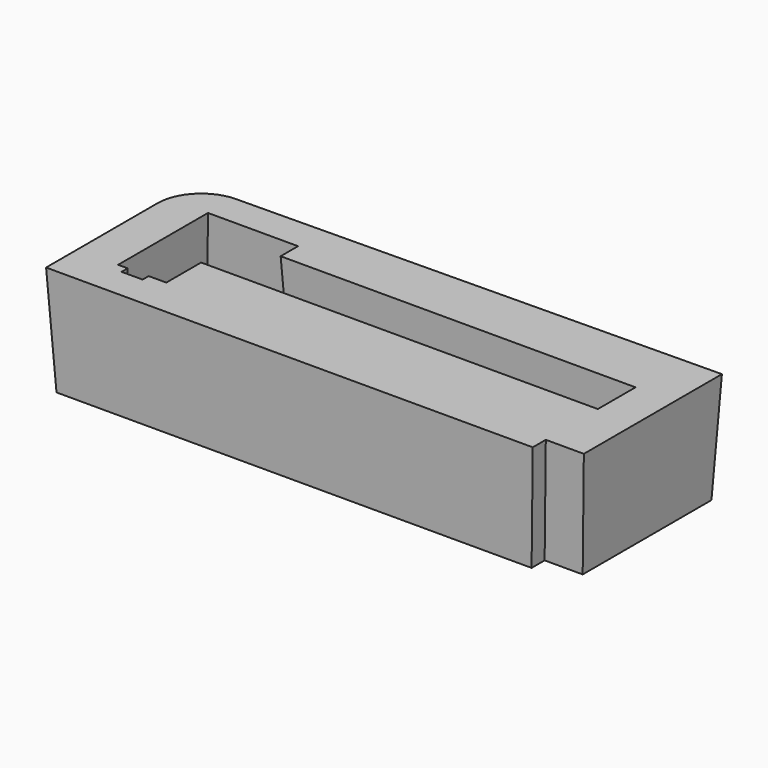
from build123d import *

# Parameters (mm, degrees)
F1_DEPTH = 1290.32
F1_TAPER = -3


with BuildPart() as f1:
    # F0 (on Top) → F1 (new body)
    with BuildSketch(Plane.XY):
        with BuildLine():
            Line((-2997.835, -998.982), (2553.335, -998.982))
            Line((2553.335, -998.982), (2553.335, -808.482))
            Line((2553.335, -808.482), (2997.835, -808.482))
            Line((2997.835, -808.482), (2997.835, 998.982))
            Line((2997.835, 998.982), (2997.835, 1072.2365724115))
            Line((2997.835, 1072.2365724115), (-2559.2672506348, 1004.3403824582))
            ThreePointArc((-2559.2672506348, 1004.3403824582), (-2869.7046943789, 872.4076161405), (-2997.835, 560.3815177319))
            Line((-2997.835, 560.3815177319), (-2997.835, -998.982))
        make_face()
        Polygon((-2542.159, -681.482), (-2653.665, -681.482), (-2653.665, 512.318), (-2653.665, 766.318), (-1466.215, 766.318), (-1466.215, 512.318), (2680.335, 512.318), (2680.335, -173.482), (-1955.165, -173.482), (-1955.165, -681.482), (-2161.159, -681.482), (-2161.159, -770.382), (-2542.159, -770.382), align=None, mode=Mode.SUBTRACT)
    extrude(amount=F1_DEPTH, taper=F1_TAPER)


solid = f1.part
